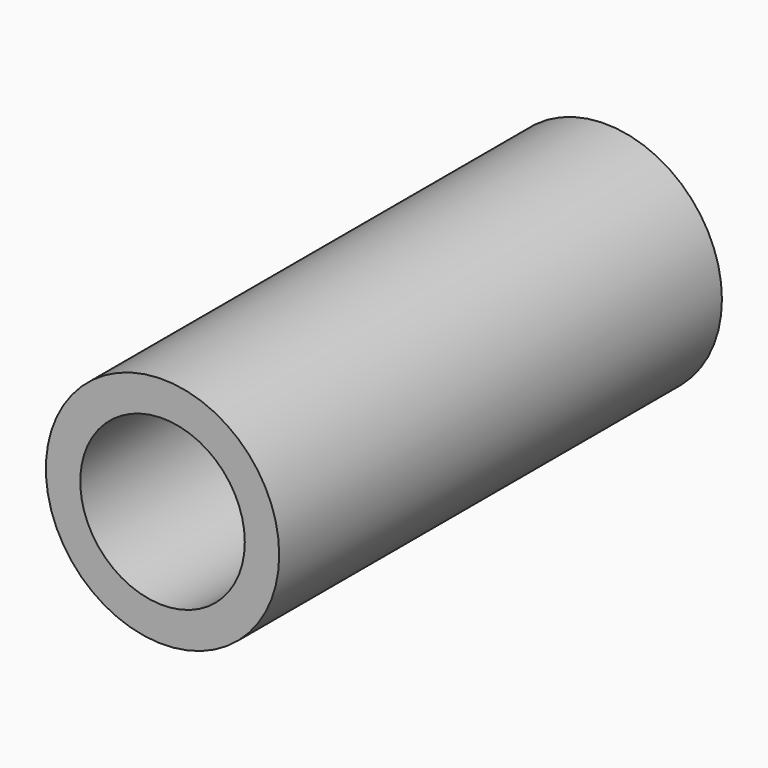
from build123d import *

# Parameters (mm, degrees)
SKETCH248_R          = 3.9
PAD125_DEPTH         = 18.5
SKETCH249_R          = 1.4
PAD126_DEPTH         = 14.5
SKETCH252_R          = 2.75
POCKET034_DEPTH      = 0.001
POCKET034_DEPTH_BACK = 18.501


with BuildPart() as part:
    # Sketch248 → Pad125 (new body)
    with BuildSketch(Plane.XZ):
        Circle(SKETCH248_R)
    extrude(amount=PAD125_DEPTH)

    # Sketch249 → Pad126 (join)
    with BuildSketch(Plane.XZ.offset(2)):
        with Locations((-3, 0)):
            Circle(SKETCH249_R)
    extrude(amount=PAD126_DEPTH)

    # Sketch252 → Pocket034 (cut, two sides)
    with BuildSketch(Plane.XZ) as pocket034_sk:
        Circle(SKETCH252_R)
    extrude(amount=-POCKET034_DEPTH, mode=Mode.SUBTRACT)
    extrude(pocket034_sk.sketch, amount=POCKET034_DEPTH_BACK, mode=Mode.SUBTRACT)


with BuildPart() as part_1:
    # Body102 placement: moved
    add(part.part.moved(Location((0, 15, 0))))


solid = part_1.part
